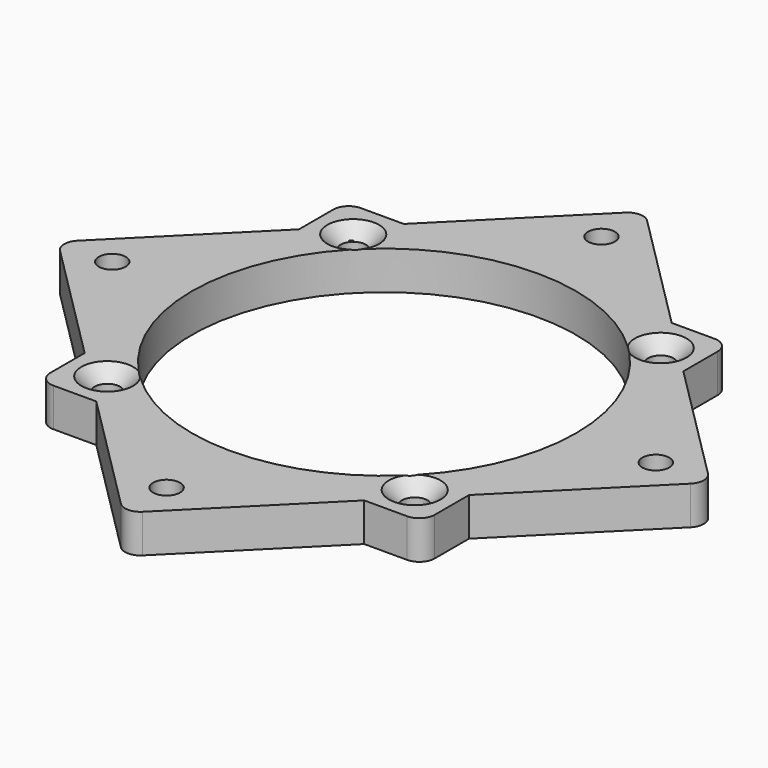
from build123d import *

# Parameters (mm, degrees)
F1_R           = 1.75
F2_DEPTH       = 5
F3_R           = 1.75
F4_DEPTH       = 5
F6_R           = 25
F7_DEPTH       = 5.001
F9_D           = 3.3
F9_CSINK_D     = 6.72
F9_CSINK_ANGLE = 90
F10_R          = 1.75
F11_DEPTH      = 2.5


with BuildPart() as f2:
    # F1 (on Top) → F2 (new body)
    with BuildSketch(Plane.XY):
        with BuildLine():
            Line((-1.4142135624, 41.0121933088), (-41.0121933088, 1.4142135624))
            ThreePointArc((-41.0121933088, 1.4142135624), (-41.5979797464, 0), (-41.0121933088, -1.4142135624))
            Line((-41.0121933088, -1.4142135624), (-1.4142135624, -41.0121933088))
            ThreePointArc((-1.4142135624, -41.0121933088), (0, -41.5979797464), (1.4142135624, -41.0121933088))
            Line((1.4142135624, -41.0121933088), (41.0121933088, -1.4142135624))
            ThreePointArc((41.0121933088, -1.4142135624), (41.5979797464, 0), (41.0121933088, 1.4142135624))
            Line((41.0121933088, 1.4142135624), (1.4142135624, 41.0121933088))
            ThreePointArc((1.4142135624, 41.0121933088), (0, 41.5979797464), (-1.4142135624, 41.0121933088))
        make_face()
        with Locations((0, -35.3553390593)):
            Circle(F1_R, mode=Mode.SUBTRACT)
        with Locations((-35.3553390593, 0)):
            Circle(F1_R, mode=Mode.SUBTRACT)
        with Locations((35.3553390593, 0)):
            Circle(F1_R, mode=Mode.SUBTRACT)
        with Locations((0, 35.3553390593)):
            Circle(F1_R, mode=Mode.SUBTRACT)
    extrude(amount=F2_DEPTH)


with BuildPart() as f4:
    # F3 (on Top) → F4 (new body)
    with BuildSketch(Plane.XY):
        with BuildLine():
            Line((23, 25), (-23, 25))
            ThreePointArc((-23, 25), (-24.4142135624, 24.4142135624), (-25, 23))
            Line((-25, 23), (-25, -23))
            ThreePointArc((-25, -23), (-24.4142135624, -24.4142135624), (-23, -25))
            Line((-23, -25), (23, -25))
            ThreePointArc((23, -25), (24.4142135624, -24.4142135624), (25, -23))
            Line((25, -23), (25, 23))
            ThreePointArc((25, 23), (24.4142135624, 24.4142135624), (23, 25))
        make_face()
        with Locations((-20, -20)):
            Circle(F3_R, mode=Mode.SUBTRACT)
        with Locations((20, -20)):
            Circle(F3_R, mode=Mode.SUBTRACT)
        with Locations((-20, 20)):
            Circle(F3_R, mode=Mode.SUBTRACT)
        with Locations((20, 20)):
            Circle(F3_R, mode=Mode.SUBTRACT)
    extrude(amount=F4_DEPTH)

    # F5: union F2
    add(f2.part)

    # F6 (on face) → F7 (cut, through all)
    with BuildSketch(Plane.XY.offset(5)):
        Circle(F6_R)
    extrude(amount=-F7_DEPTH, mode=Mode.SUBTRACT)


with BuildPart() as f4_1:
    # F8: moved
    add(f4.part.moved(Location((0, 0, -5))))

    # F9 (through all)
    with Locations(Plane.XY):
        with Locations((-20, -20), (20, 20), (20, -20), (-20, 20)):
            CounterSinkHole(F9_D / 2, F9_CSINK_D / 2, counter_sink_angle=F9_CSINK_ANGLE)

    # F10 (on face) → F11 (cut)
    with BuildSketch(Plane(origin=(0, 0, -5), x_dir=(1, 0, 0), z_dir=(0, 0, -1))):
        Polygon((37.0428390593, 2.9228357378), (33.6678390593, 2.9228357378), (31.9803390593, 0), (33.6678390593, -2.9228357378), (37.0428390593, -2.9228357378), (38.7303390593, 0), align=None)
        with Locations((35.3553390593, 0)):
            Circle(F10_R, mode=Mode.SUBTRACT)
        Polygon((-2.9228357378, 33.6678390593), (0, 31.9803390593), (2.9228357378, 33.6678390593), (2.9228357378, 37.0428390593), (0, 38.7303390593), (-2.9228357378, 37.0428390593), align=None)
        with Locations((0, 35.3553390593)):
            Circle(F10_R, mode=Mode.SUBTRACT)
        Polygon((0, -38.7303390593), (2.9228357378, -37.0428390593), (2.9228357378, -33.6678390593), (0, -31.9803390593), (-2.9228357378, -33.6678390593), (-2.9228357378, -37.0428390593), align=None)
        with Locations((0, -35.3553390593)):
            Circle(F10_R, mode=Mode.SUBTRACT)
        Polygon((-38.7303390593, 0), (-37.0428390593, -2.9228357378), (-33.6678390593, -2.9228357378), (-31.9803390593, 0), (-33.6678390593, 2.9228357378), (-37.0428390593, 2.9228357378), align=None)
        with Locations((-35.3553390593, 0)):
            Circle(F10_R, mode=Mode.SUBTRACT)
    extrude(amount=-F11_DEPTH, mode=Mode.SUBTRACT)


solid = f4_1.part
